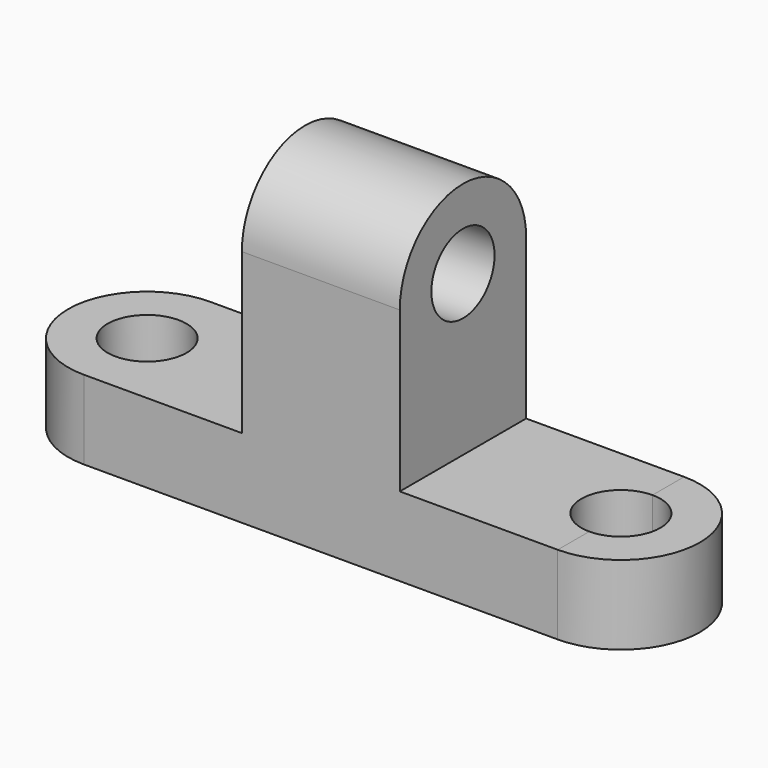
from build123d import *

# Parameters (mm, degrees)
F1_DEPTH  = 25.4
F3_DEPTH  = 12.7
F5_DEPTH  = 12.7
F7_DEPTH  = 12.701
F9_DEPTH  = 12.701
F10_R     = 6.35
F11_DEPTH = 12.701
F13_DEPTH = 25.4
F14_R     = 6.35
F15_DEPTH = 63.501


with BuildPart() as f1:
    # F0 (on Front) → F1 (new body)
    with BuildSketch(Plane.XZ):
        Polygon((-76.2, 12.7), (-76.2, 0), (0, 0), (0, 12.7), (-25.4, 12.7), (-25.4, 38.39084), (-50.8, 38.39084), (-50.8, 12.7), align=None)
    extrude(amount=F1_DEPTH)

    # F2 (on face) → F3 (join)
    with BuildSketch(Plane(origin=(0, 0, 0), x_dir=(1, 0, 0), z_dir=(0, 0, -1))):
        with BuildLine():
            Line((-76.2, 0), (-76.2, 25.4))
            ThreePointArc((-76.2, 25.4), (-88.9, 12.7), (-76.2, 0))
        make_face()
    extrude(amount=-F3_DEPTH)

    # F8 (on face) → F9 (cut, through all)
    with BuildSketch(Plane.XY.offset(12.7)):
        with BuildLine():
            Line((0, -19.057885), (0, -6.357885))
            ThreePointArc((0, -6.357885), (-6.35, -12.707885), (0, -19.057885))
        make_face()
    extrude(amount=-F9_DEPTH, mode=Mode.SUBTRACT)

    # F10 (on face) → F11 (cut, through all)
    with BuildSketch(Plane.XY.offset(12.7)):
        with Locations((-76.2, -12.7)):
            Circle(F10_R)
    extrude(amount=-F11_DEPTH, mode=Mode.SUBTRACT)

    # F12 (on face) → F13 (join)
    with BuildSketch(Plane.YZ.offset(-25.4)):
        with BuildLine():
            Line((-25.4, 38.39084), (0, 38.39084))
            ThreePointArc((0, 38.39084), (-12.7, 51.09084), (-25.4, 38.39084))
        make_face()
    extrude(amount=-F13_DEPTH)

    # F14 (on face) → F15 (cut, through all)
    with BuildSketch(Plane.YZ.offset(-25.4)):
        with Locations((-12.7, 38.39084)):
            Circle(F14_R)
    extrude(amount=-F15_DEPTH, mode=Mode.SUBTRACT)


with BuildPart() as f5:
    # F4 (on face) → F5 (new body)
    with BuildSketch(Plane(origin=(0, 0, 0), x_dir=(1, 0, 0), z_dir=(0, 0, -1))):
        with BuildLine():
            Line((0, 25.4), (0, 0))
            ThreePointArc((0, 0), (12.7, 12.7), (0, 25.4))
        make_face()
    extrude(amount=-F5_DEPTH)

    # F6 (on face) → F7 (cut, through all)
    with BuildSketch(Plane.XY.offset(12.7)):
        with BuildLine():
            ThreePointArc((0, -19.05), (4.490128, -17.190128), (6.35, -12.7))
            ThreePointArc((6.35, -12.7), (4.490128, -8.209872), (0, -6.35))
            Line((0, -6.35), (0, -19.05))
        make_face()
    extrude(amount=-F7_DEPTH, mode=Mode.SUBTRACT)


solid = Compound([f1.part, f5.part])
